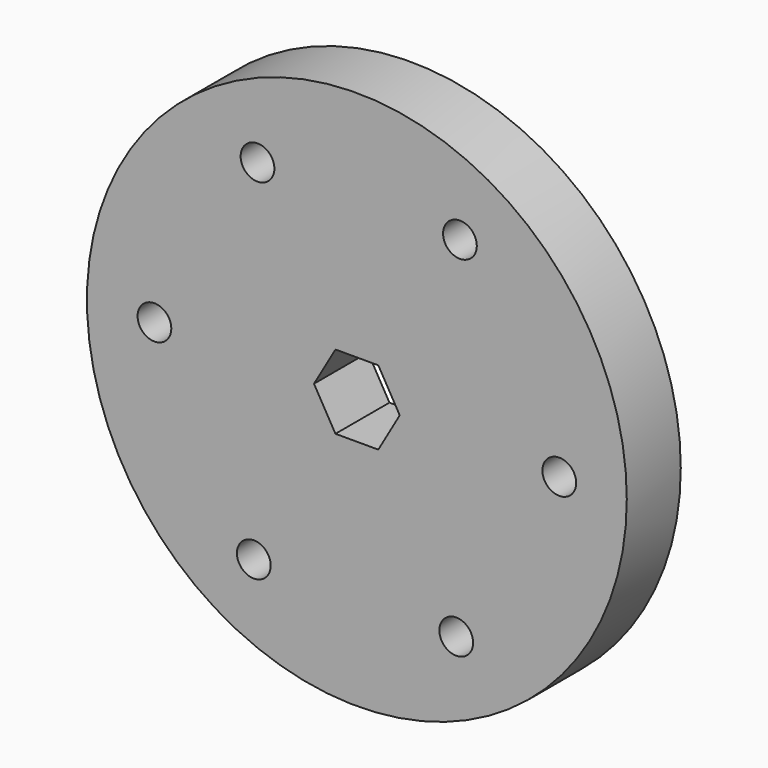
from build123d import *

# Parameters (mm, degrees)
F0_R     = 101.6
F0_R_2   = 6.35
F1_DEPTH = 25.4


with BuildPart() as f1:
    # F0 (on Front) → F1 (new body)
    with BuildSketch(Plane.XZ):
        Circle(F0_R)
        with Locations((-38.790503, -65.587628)):
            Circle(F0_R_2, mode=Mode.SUBTRACT)
        Polygon((16.131167, 0), (8.065583, -13.97), (-8.065583, -13.97), (-16.131167, 0), (-8.065583, 13.97), (8.065583, 13.97), align=None, mode=Mode.SUBTRACT)
        with Locations((37.4053, -66.387375)):
            Circle(F0_R_2, mode=Mode.SUBTRACT)
        with Locations((76.195803, -0.799747)):
            Circle(F0_R_2, mode=Mode.SUBTRACT)
        with Locations((-76.195803, 0.799747)):
            Circle(F0_R_2, mode=Mode.SUBTRACT)
        with Locations((-37.4053, 66.387375)):
            Circle(F0_R_2, mode=Mode.SUBTRACT)
        with Locations((38.790503, 65.587628)):
            Circle(F0_R_2, mode=Mode.SUBTRACT)
    extrude(amount=F1_DEPTH)


solid = f1.part
